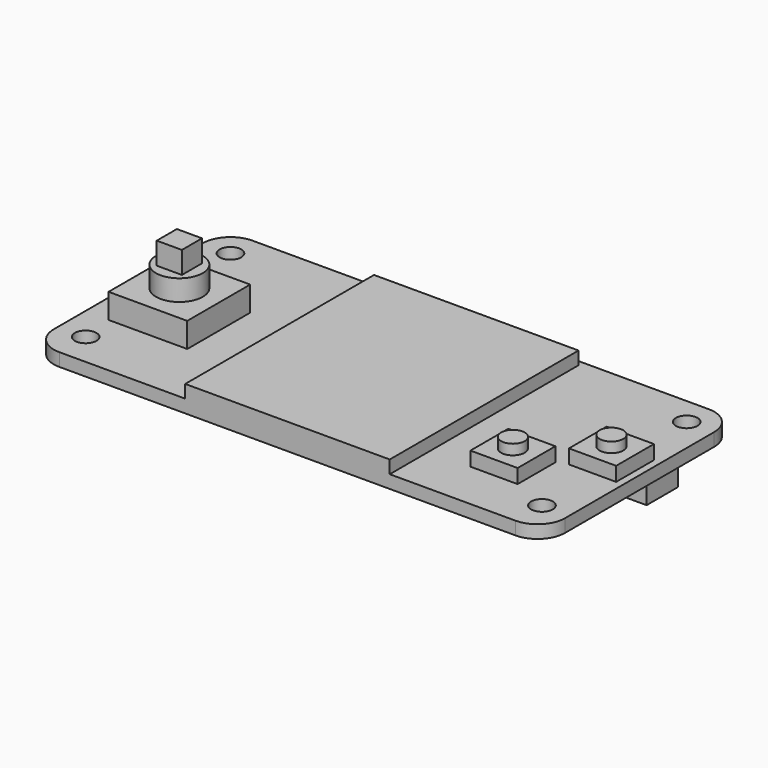
from build123d import *

# Parameters (mm, degrees)
SKETCH013_W  = 51
SKETCH013_H  = 5
PAD011_DEPTH = 8
SKETCH014_W  = 65
SKETCH014_H  = 30.7
SKETCH014_R  = 1.375
PAD012_DEPTH = 1.651
FILLET003_R  = 3.5
SKETCH017_W  = 10
SKETCH017_H  = 10
PAD014_DEPTH = 3.15
SKETCH018_R  = 2.975
PAD015_DEPTH = 2.65
SKETCH019_W  = 3.2
SKETCH019_H  = 3.2
PAD016_DEPTH = 2.8
SKETCH020_W  = 6
SKETCH020_H  = 6
PAD017_DEPTH = 1.8
SKETCH021_R  = 1.5
PAD018_DEPTH = 1.3
SKETCH022_W  = 26
SKETCH022_H  = 30
PAD019_DEPTH = 1.65


with BuildPart() as part:
    # Sketch013 → Pad011 (new body)
    with BuildSketch(Plane.XY):
        with Locations((32.5, -3)):
            Rectangle(SKETCH013_W, SKETCH013_H)
    extrude(amount=PAD011_DEPTH)

    # Sketch014 (on Face6 of Pad011) → Pad012 (join)
    with BuildSketch(Plane.XY.offset(8)):
        with Locations((32.5, -15.35)):
            Rectangle(SKETCH014_W, SKETCH014_H)
        with Locations((3.5, -3.5)):
            Circle(SKETCH014_R, mode=Mode.SUBTRACT)
        with Locations((61.5, -3.5)):
            Circle(SKETCH014_R, mode=Mode.SUBTRACT)
        with Locations((61.5, -26.5)):
            Circle(SKETCH014_R, mode=Mode.SUBTRACT)
        with Locations((3.5, -26.5)):
            Circle(SKETCH014_R, mode=Mode.SUBTRACT)
    extrude(amount=PAD012_DEPTH)

    # Fillet003
    fillet003_edges = [part.edges().sort_by_distance(p)[0] for p in [
        (0, 0, 8.8255),
        (0, -30.7, 8.8255),
        (65, -30.7, 8.8255),
        (65, 0, 8.8255),
    ]]
    fillet(fillet003_edges, radius=FILLET003_R)

    # Sketch017 (on Face5 of Fillet003) → Pad014 (join)
    with BuildSketch(Plane.XY.offset(9.651)):
        with Locations((8, -17.24)):
            Rectangle(SKETCH017_W, SKETCH017_H)
    extrude(amount=PAD014_DEPTH)

    # Sketch018 (on Face24 of Pad014) → Pad015 (join)
    with BuildSketch(Plane.XY.offset(12.801)):
        with Locations((8, -17.24)):
            Circle(SKETCH018_R)
    extrude(amount=PAD015_DEPTH)

    # Sketch019 (on Face26 of Pad015) → Pad016 (join)
    with BuildSketch(Plane.XY.offset(15.451)):
        with Locations((8, -17.24)):
            Rectangle(SKETCH019_W, SKETCH019_H)
    extrude(amount=PAD016_DEPTH)

    # Sketch020 (on Face5 of Pad016) → Pad017 (join)
    with BuildSketch(Plane.XY.offset(9.651)):
        with Locations((61.09, -14.95)):
            Rectangle(SKETCH020_W, SKETCH020_H)
        with Locations((53.75, -21.43)):
            Rectangle(SKETCH020_W, SKETCH020_H)
    extrude(amount=PAD017_DEPTH)

    # Sketch021 (on Face34 of Pad017) → Pad018 (join)
    with BuildSketch(Plane.XY.offset(11.451)):
        with Locations((53.75, -21.43)):
            Circle(SKETCH021_R)
        with Locations((61.09, -14.95)):
            Circle(SKETCH021_R)
    extrude(amount=PAD018_DEPTH)

    # Sketch022 (on Face5 of Pad018) → Pad019 (join)
    with BuildSketch(Plane.XY.offset(9.651)):
        with Locations((32.51, -15.7)):
            Rectangle(SKETCH022_W, SKETCH022_H)
    extrude(amount=PAD019_DEPTH)


with BuildPart() as part_1:
    # Body002 placement: moved
    add(part.part.moved(Location((0, 0, 4))))


solid = part_1.part
